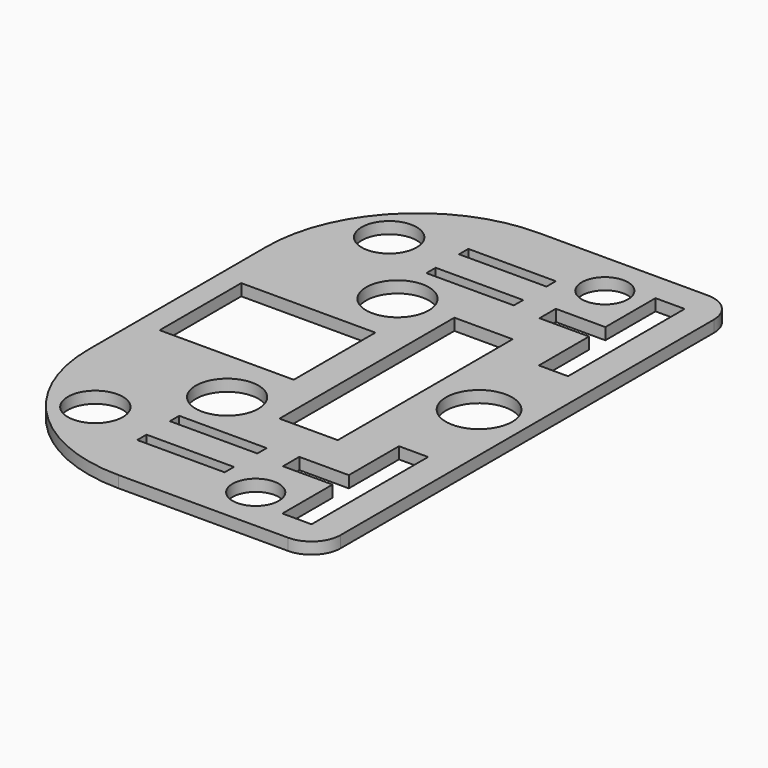
from build123d import *

# Parameters (mm, degrees)
SKETCH001_W     = 30
SKETCH001_H     = 4
PAD_DEPTH       = 4
SKETCH002_W     = 20
SKETCH002_H     = 75
SKETCH002_W_2   = 46
SKETCH002_H_2   = 35
POCKET_DEPTH    = 5
SKETCH003_R     = 10.756675
SKETCH003_R_2   = 11.362787
SKETCH003_R_3   = 7.933722
SKETCH003_R_4   = 9.434644
POCKET001_DEPTH = 5


with BuildPart() as part:
    # Sketch001 → Pad (new body)
    with BuildSketch(Plane.XY):
        with BuildLine():
            Line((0, 90), (0, 128.268396))
            ThreePointArc((51.731604, 180), (15.151836, 164.848164), (0, 128.268396))
            Line((51.731604, 180), (110, 180))
            ThreePointArc((120, 170), (117.071068, 177.071068), (110, 180))
            Line((120, 170), (120, 10))
            ThreePointArc((110, 0), (117.071068, 2.928932), (120, 10))
            Line((110, 0), (51.731604, 0))
            ThreePointArc((0, 51.731604), (15.151836, 15.151836), (51.731604, 0))
            Line((0, 51.731604), (0, 90))
        make_face()
        Polygon((100, 60), (100, 38.5), (83, 38.5), (83, 31.5), (100, 31.5), (100, 10), (110, 10), (110, 60), align=None, mode=Mode.SUBTRACT)
        Polygon((100, 120), (110, 120), (110, 170), (100, 170), (100, 148.5), (83, 148.5), (83, 141.5), (100, 141.5), align=None, mode=Mode.SUBTRACT)
        Polygon((73, 37), (43, 37), (43, 33), (73, 33), (73, 35), align=None, mode=Mode.SUBTRACT)
        Polygon((73, 145), (73, 147), (43, 147), (43, 143), (73, 143), align=None, mode=Mode.SUBTRACT)
        with Locations((58, 159)):
            Rectangle(SKETCH001_W, SKETCH001_H, mode=Mode.SUBTRACT)
        with Locations((58, 21)):
            Rectangle(SKETCH001_W, SKETCH001_H, mode=Mode.SUBTRACT)
    extrude(amount=PAD_DEPTH)

    # Sketch002 (on Face45 of Pad) → Pocket (cut)
    with BuildSketch(Plane.XY.offset(4)):
        with Locations((75, 90)):
            Rectangle(SKETCH002_W, SKETCH002_H)
        with Locations((30.894964, 90)):
            Rectangle(SKETCH002_W_2, SKETCH002_H_2)
    extrude(amount=-POCKET_DEPTH, mode=Mode.SUBTRACT)

    # Sketch003 (on Face5 of Pocket) → Pocket001 (cut)
    with BuildSketch(Plane.XY.offset(4)):
        with Locations((46.274479, 126.527054)):
            Circle(SKETCH003_R)
        with Locations((46.274479, 53.472946)):
            Circle(SKETCH003_R)
        with Locations((103.472527, 90)):
            Circle(SKETCH003_R_2)
        with Locations((86.739067, 164.861923)):
            Circle(SKETCH003_R_3)
        with Locations((86.739067, 15.138077)):
            Circle(SKETCH003_R_3)
        with Locations((22.239138, 27.003632)):
            Circle(SKETCH003_R_4)
        with Locations((22.239138, 152.996368)):
            Circle(SKETCH003_R_4)
    extrude(amount=-POCKET001_DEPTH, mode=Mode.SUBTRACT)


solid = part.part
